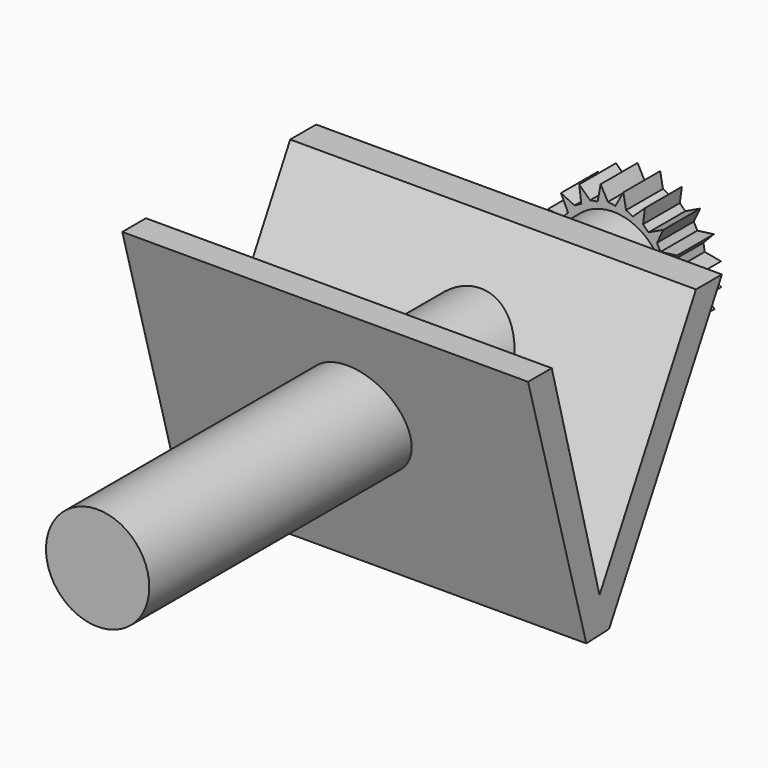
from build123d import *

# Parameters (mm, degrees)
F0_R     = 28.483217
F1_DEPTH = 381
F3_DEPTH = 223.84599
F6_DEPTH = 25.4


with BuildPart() as f1:
    # F0 (on Front) → F1 (new body)
    with BuildSketch(Plane.XZ):
        with Locations((-106.533237, 34.144115)):
            Circle(F0_R)
    extrude(amount=F1_DEPTH)

    # F5 (on Front) → F6 (join)
    with BuildSketch(Plane.XZ):
        Polygon((-113.515615, 73.751561), (-115.186885, 64.768493), (-119.343266, 64.047263), (-125.377729, 69.774635), (-124.19128, 60.714779), (-127.921361, 58.744456), (-135.430331, 62.326759), (-131.502302, 54.076956), (-134.440956, 51.050409), (-142.689404, 52.136982), (-136.404297, 45.504782), (-138.263869, 41.71827), (-146.444378, 40.202753), (-138.417424, 35.83736), (-139.015885, 31.661534), (-146.327691, 27.692274), (-137.344623, 26.021005), (-136.623393, 21.864624), (-142.350765, 15.830161), (-133.290909, 17.01661), (-131.320586, 13.286529), (-134.902889, 5.777559), (-126.653086, 9.705588), (-123.626539, 6.766934), (-124.713112, -1.481514), (-118.080912, 4.803593), (-114.2944, 2.944021), (-112.778883, -5.236488), (-108.41349, 2.790466), (-104.237664, 2.192005), (-100.268404, -5.119801), (-98.597135, 3.863267), (-94.440754, 4.584497), (-88.406291, -1.142875), (-89.59274, 7.916981), (-85.862659, 9.887304), (-78.353689, 6.305001), (-82.281718, 14.554804), (-79.343064, 17.581351), (-71.094616, 16.494777), (-77.379723, 23.126978), (-75.520151, 26.91349), (-67.339642, 28.429007), (-75.366596, 32.7944), (-74.768135, 36.970226), (-67.456329, 40.939485), (-76.439397, 42.610755), (-77.160627, 46.767136), (-71.433255, 52.801599), (-80.493111, 51.61515), (-82.463434, 55.345231), (-78.881131, 62.854201), (-87.130934, 58.926172), (-90.157481, 61.864826), (-89.070907, 70.113274), (-95.703108, 63.828167), (-99.48962, 65.687739), (-101.005137, 73.868248), (-105.37053, 65.841294), (-109.546356, 66.439755), align=None)
    extrude(amount=F6_DEPTH)


with BuildPart() as f3:
    # F2 (on Right) → F3 (new body)
    with BuildSketch(Plane.YZ):
        Polygon((-161.499187, -50.045472), (-83.685532, 90.52112), (-101.570122, 90.52112), (-168.088242, -30.905824), (-201.033533, 92.717469), (-217.349291, 92.717469), (-177.187413, -50.673004), align=None)
    extrude(amount=-F3_DEPTH)

    # F4: cut F1
    add(f1.part, mode=Mode.SUBTRACT)


solid = Compound([f1.part, f3.part])
